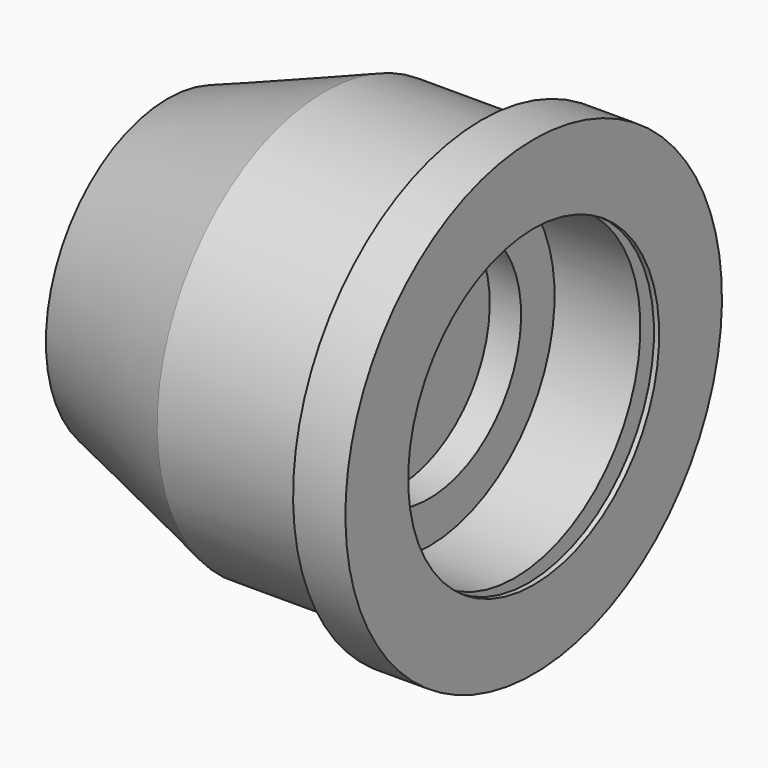
from build123d import *


with BuildPart() as f1:
    # F0 (on Front) → F1 (revolve)
    with BuildSketch(Plane.XZ):
        Polygon((-0.5, 15), (0, 15), (0, 22.5), (-5, 22.5), (-5, 20), (-20, 20), (-35, 14.540446), (-35, 2.5), (-27, 2.5), (-27, 4.5), (-13, 4.5), (-13, 11), (-10, 11), (-10, 15), (-1.8, 15), (-1.8, 17), (-0.5, 17), align=None)
    revolve(axis=Axis((-10.233236, 0, 0), (-1, 0, 0)))


solid = f1.part
